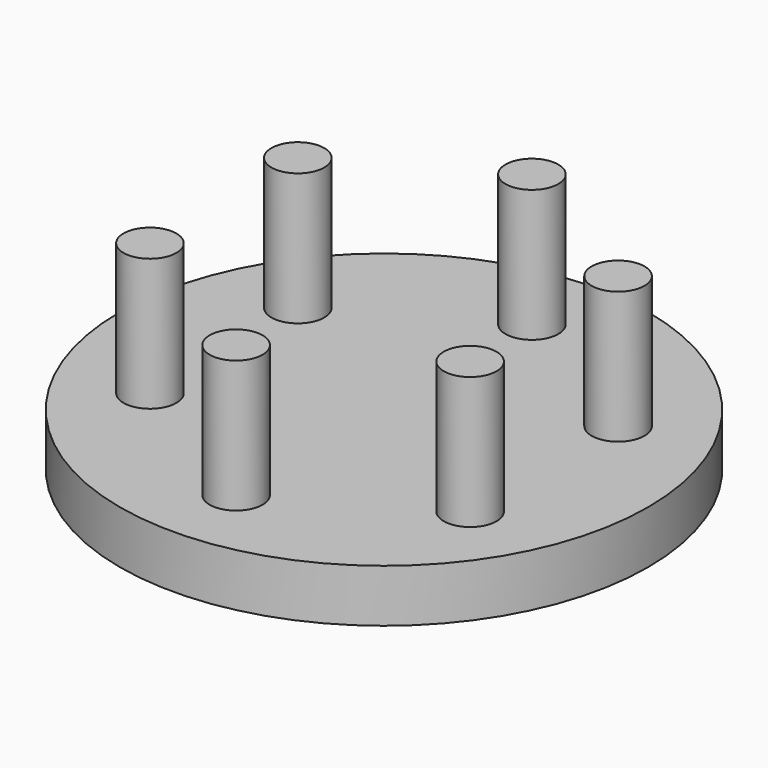
from build123d import *

# Parameters (mm, degrees)
F0_R     = 50
F1_DEPTH = 5
F2_R     = 5
F3_DEPTH = 25


with BuildPart() as f1:
    # F0 (on Top) → F1 (new body, symmetric)
    with BuildSketch(Plane.XY):
        Circle(F0_R)
    extrude(amount=F1_DEPTH, both=True)

    # F2 (on face) → F3 (join)
    with BuildSketch(Plane.XY.offset(5)):
        with Locations((0, 35)):
            Circle(F2_R)
        with Locations((-30.310889, 17.5)):
            Circle(F2_R)
        with Locations((-30.310889, -17.5)):
            Circle(F2_R)
        with Locations((0, -35)):
            Circle(F2_R)
        with Locations((30.310889, -17.5)):
            Circle(F2_R)
        with Locations((30.310889, 17.5)):
            Circle(F2_R)
    extrude(amount=F3_DEPTH)


solid = f1.part
